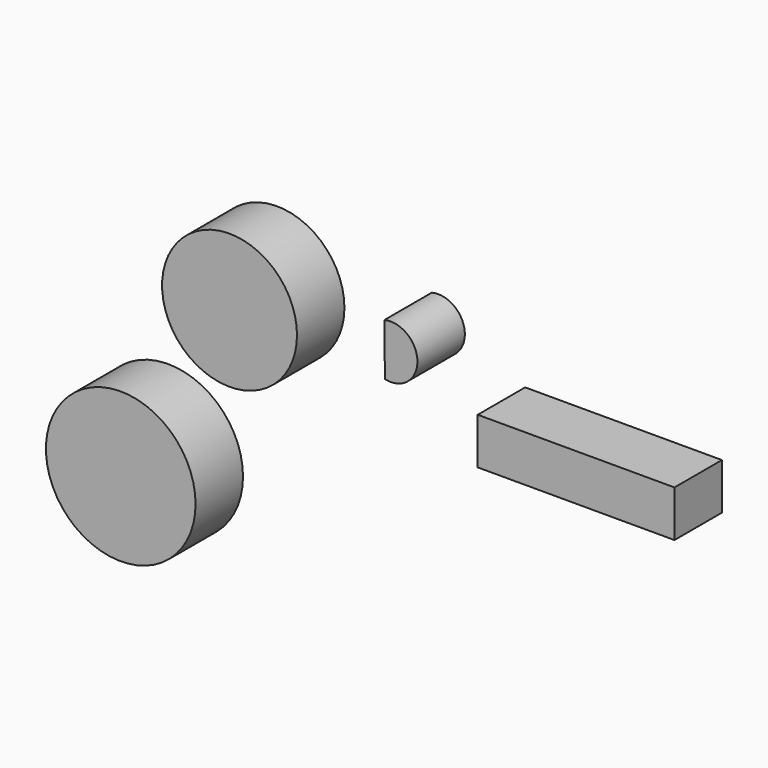
from build123d import *

# Parameters (mm, degrees)
F0_R     = 28.890571
F0_W     = 84.27465
F0_H     = 19.851753
F0_R_2   = 32.041443
F1_DEPTH = 25.4


with BuildPart() as f1:
    # F0 (on Front) → F1 (new body)
    with BuildSketch(Plane.XZ):
        with Locations((-80.384657, 43.147404)):
            Circle(F0_R)
        with Locations((68.049513, 28.375155)):
            Rectangle(F0_W, F0_H)
        with BuildLine():
            Line((-14.07147, 61.021894), (-13.830258, 38.794562))
            ThreePointArc((-13.830258, 38.794562), (0.080458, 50.060497), (-14.07147, 61.021894))
        make_face()
        with Locations((-126.977757, -34.651842)):
            Circle(F0_R_2)
    extrude(amount=F1_DEPTH)


solid = f1.part
